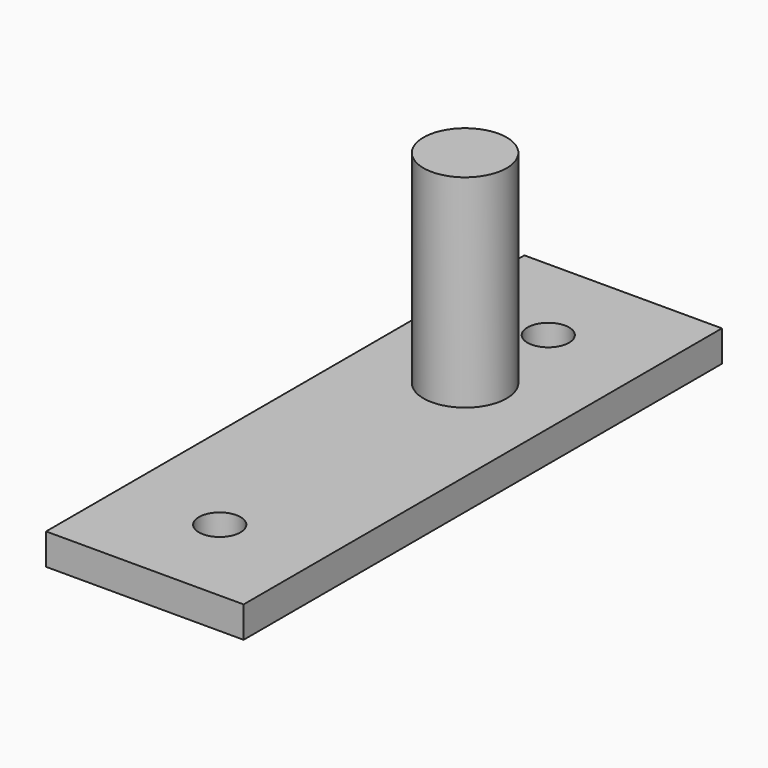
from build123d import *

# Parameters (mm, degrees)
F0_W          = 38
F0_H          = 6
F1_DEPTH      = 57.5
F1_DEPTH_BACK = 57.5
F2_R          = 4
F3_DEPTH      = 6
F4_R          = 8
F5_DEPTH      = 39


with BuildPart() as f1:
    # F0 (on Front) → F1 (new body, two sides)
    with BuildSketch(Plane.XZ) as f1_sk:
        Rectangle(F0_W, F0_H)
    extrude(amount=F1_DEPTH)
    extrude(f1_sk.sketch, amount=-F1_DEPTH_BACK)

    # F2 (on face) → F3 (cut)
    with BuildSketch(Plane.XY.offset(3)):
        with Locations((0, 39.5)):
            Circle(F2_R)
        with Locations((0, -39.5)):
            Circle(F2_R)
    extrude(amount=-F3_DEPTH, mode=Mode.SUBTRACT)

    # F4 (on face) → F5 (join)
    with BuildSketch(Plane.XY.offset(3)):
        with Locations((0, 19.5)):
            Circle(F4_R)
    extrude(amount=F5_DEPTH)


solid = f1.part
